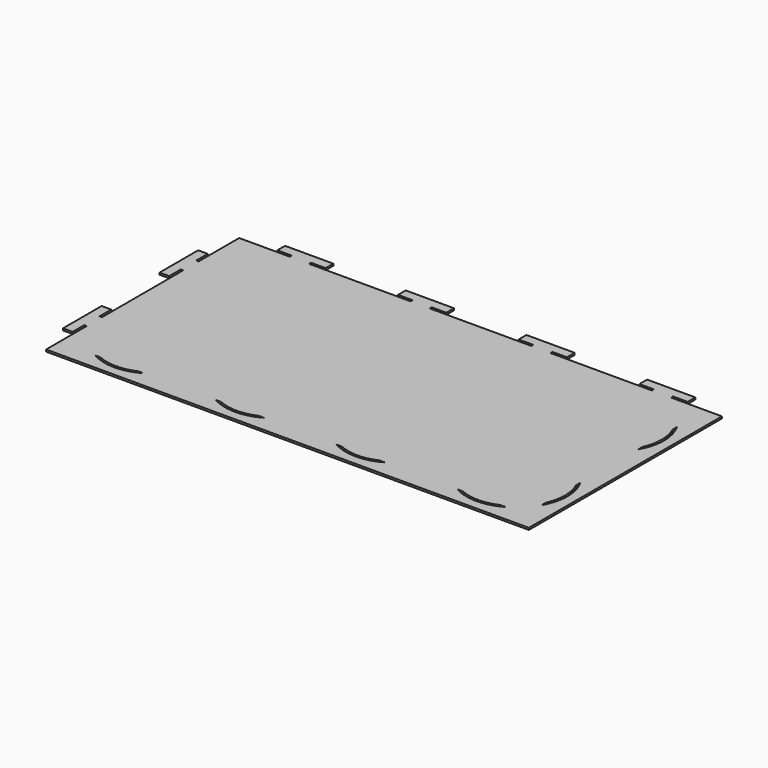
from build123d import *

# Parameters (mm, degrees)
F0_W     = 4
F0_H     = 0.5
F0_W_2   = 0.5
F0_H_2   = 4
F1_DEPTH = 0.4


with BuildPart() as f1:
    # F0 (on Top) → F1 (new body)
    with BuildSketch(Plane.XY):
        Polygon((-62.931541, 37.5), (-73.431541, 37.5), (-73.431541, 27), (-73.431541, 23), (-73.431541, 2), (-73.431541, -2), (-73.431541, -12.5), (26.568459, -12.5), (26.568459, 37.5), (16.068459, 37.5), (12.068459, 37.5), (-8.931541, 37.5), (-12.931541, 37.5), (-33.931541, 37.5), (-37.931541, 37.5), (-58.931541, 37.5), align=None)
        with BuildLine():
            ThreePointArc((-55.931541, -9.160254), (-60.931541, -10.5), (-65.931541, -9.160254))
            Line((-65.931541, -9.160254), (-64.836666, -9.160254))
            ThreePointArc((-64.836666, -9.160254), (-60.931541, -10), (-57.026416, -9.160254))
            Line((-57.026416, -9.160254), (-55.931541, -9.160254))
        make_face(mode=Mode.SUBTRACT)
        with BuildLine():
            Line((-40.931541, -9.160254), (-39.836666, -9.160254))
            ThreePointArc((-39.836666, -9.160254), (-35.931541, -10), (-32.026416, -9.160254))
            Line((-32.026416, -9.160254), (-30.931541, -9.160254))
            ThreePointArc((-30.931541, -9.160254), (-35.931541, -10.5), (-40.931541, -9.160254))
        make_face(mode=Mode.SUBTRACT)
        with BuildLine():
            Line((-15.931541, -9.160254), (-14.836666, -9.160254))
            ThreePointArc((-14.836666, -9.160254), (-10.931541, -10), (-7.026416, -9.160254))
            Line((-7.026416, -9.160254), (-5.931541, -9.160254))
            ThreePointArc((-5.931541, -9.160254), (-10.931541, -10.5), (-15.931541, -9.160254))
        make_face(mode=Mode.SUBTRACT)
        with BuildLine():
            Line((9.068459, -9.160254), (10.163334, -9.160254))
            ThreePointArc((10.163334, -9.160254), (14.068459, -10), (17.973584, -9.160254))
            Line((17.973584, -9.160254), (19.068459, -9.160254))
            ThreePointArc((19.068459, -9.160254), (14.068459, -10.5), (9.068459, -9.160254))
        make_face(mode=Mode.SUBTRACT)
        with BuildLine():
            ThreePointArc((23.228713, 5), (24.568459, 0), (23.228713, -5))
            Line((23.228713, -5), (23.228713, -3.905125))
            ThreePointArc((23.228713, -3.905125), (24.068459, 0), (23.228713, 3.905125))
            Line((23.228713, 3.905125), (23.228713, 5))
        make_face(mode=Mode.SUBTRACT)
        with BuildLine():
            Line((23.228713, 20), (23.228713, 21.094875))
            ThreePointArc((23.228713, 21.094875), (24.068459, 25), (23.228713, 28.905125))
            Line((23.228713, 28.905125), (23.228713, 30))
            ThreePointArc((23.228713, 30), (24.568459, 25), (23.228713, 20))
        make_face(mode=Mode.SUBTRACT)
        Polygon((9.068459, 38), (12.068459, 38), (16.068459, 38), (19.068459, 38), (19.068459, 40), (9.068459, 40), align=None)
        with Locations((14.068459, 37.75)):
            Rectangle(F0_W, F0_H)
        Polygon((-40.931541, 38), (-37.931541, 38), (-33.931541, 38), (-30.931541, 38), (-30.931541, 40), (-40.931541, 40), align=None)
        Polygon((-15.931541, 38), (-12.931541, 38), (-8.931541, 38), (-5.931541, 38), (-5.931541, 40), (-15.931541, 40), align=None)
        Polygon((-65.931541, 38), (-62.931541, 38), (-58.931541, 38), (-55.931541, 38), (-55.931541, 40), (-65.931541, 40), align=None)
        with Locations((-35.931541, 37.75)):
            Rectangle(F0_W, F0_H)
        with Locations((-10.931541, 37.75)):
            Rectangle(F0_W, F0_H)
        with Locations((-60.931541, 37.75)):
            Rectangle(F0_W, F0_H)
        Polygon((-73.931541, 23), (-73.931541, 27), (-73.931541, 30), (-75.931541, 30), (-75.931541, 20), (-73.931541, 20), align=None)
        Polygon((-73.931541, -2), (-73.931541, 2), (-73.931541, 5), (-75.931541, 5), (-75.931541, -5), (-73.931541, -5), align=None)
        with Locations((-73.681541, 0)):
            Rectangle(F0_W_2, F0_H_2)
        with Locations((-73.681541, 25)):
            Rectangle(F0_W_2, F0_H_2)
    extrude(amount=F1_DEPTH)


solid = f1.part
